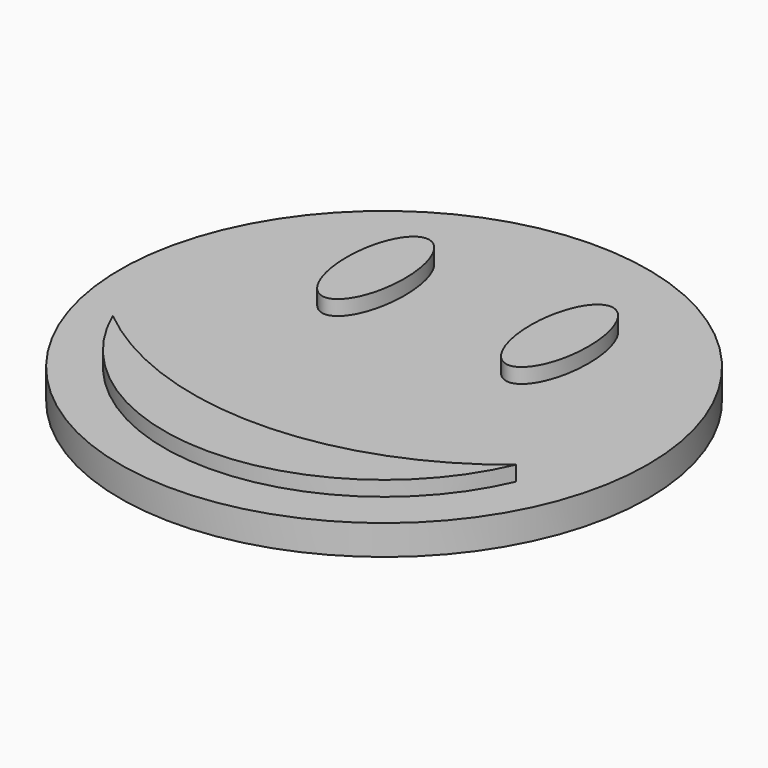
from build123d import *

# Parameters (mm, degrees)
F0_R     = 10.6
F1_DEPTH = 1.2
F3_DEPTH = 0.6


with BuildPart() as f1:
    # F0 (on Top) → F1 (new body)
    with BuildSketch(Plane.XY):
        Circle(F0_R)
    extrude(amount=F1_DEPTH)

    # F2 (on face) → F3 (join)
    with BuildSketch(Plane.XY.offset(1.2)):
        with BuildLine():
            ThreePointArc((-8.094998, -3.5), (0, -8.81924), (8.094998, -3.5))
            ThreePointArc((8.094998, -3.5), (0, -6.399999), (-8.094998, -3.5))
        make_face()
        with BuildLine():
            add(Edge.make_bspline(
                [(-3.692403, 1.638669), (-1.678549, 1.638669), (-2.685476, 5.470182), (-3.692403, 9.301696), (-4.699331, 5.470182), (-5.706258, 1.638669), (-3.692403, 1.638669)],
                knots=[0, 0, 0, 2.094395, 2.094395, 4.18879, 4.18879, 6.283185, 6.283185, 6.283185], degree=2, weights=[1, 0.5, 1, 0.5, 1, 0.5, 1]))
        make_face()
        with BuildLine():
            add(Edge.make_bspline(
                [(3.692403, 1.638669), (5.706258, 1.638669), (4.699331, 5.470182), (3.692403, 9.301696), (2.685476, 5.470182), (1.678549, 1.638669), (3.692403, 1.638669)],
                knots=[0, 0, 0, 2.094395, 2.094395, 4.18879, 4.18879, 6.283185, 6.283185, 6.283185], degree=2, weights=[1, 0.5, 1, 0.5, 1, 0.5, 1]))
        make_face()
    extrude(amount=F3_DEPTH)


solid = f1.part
